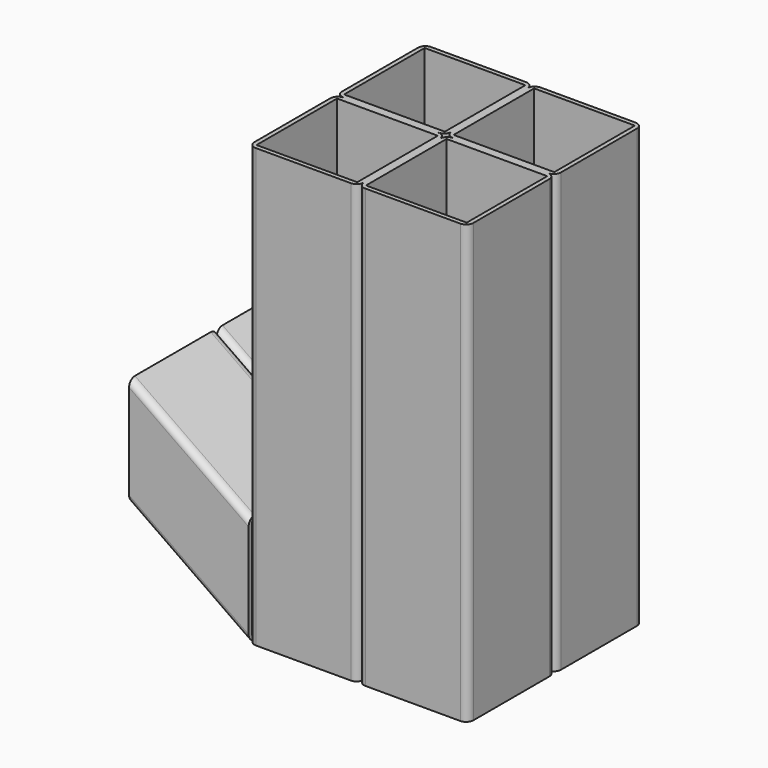
from build123d import *

# Parameters (mm, degrees)
F0_W     = 65
F0_H     = 3
F0_W_2   = 3
F0_H_2   = 65
F1_DEPTH = 300
F3_W     = 65
F3_H     = 3
F3_W_2   = 69
F3_H_2   = 69


with BuildPart() as f1:
    # F0 (on Top) → F1 (new body)
    with BuildSketch(Plane.XY):
        with Locations((-37.5, -1.5)):
            Rectangle(F0_W, F0_H)
        with Locations((-1.5, 37.5)):
            Rectangle(F0_W_2, F0_H_2)
        with Locations((37.5, 1.5)):
            Rectangle(F0_W, F0_H)
        with Locations((37.5, -1.5)):
            Rectangle(F0_W, F0_H)
        with BuildLine():
            Line((70, 3), (70, 0))
            ThreePointArc((70, 0), (73.535534, 1.464466), (75, 5))
            Line((75, 5), (75, 70))
            ThreePointArc((75, 70), (73.535534, 73.535534), (70, 75))
            Line((70, 75), (5, 75))
            ThreePointArc((5, 75), (1.464466, 73.535534), (0, 70))
            Line((0, 70), (3, 70))
            Line((3, 70), (3, 72))
            Line((3, 72), (72, 72))
            Line((72, 72), (72, 3))
            Line((72, 3), (70, 3))
        make_face()
        with BuildLine():
            ThreePointArc((0, 5), (1.464466, 1.464466), (5, 0))
            Line((5, 0), (5, 3))
            Line((5, 3), (3, 3))
            Line((3, 3), (3, 5))
            Line((3, 5), (0, 5))
        make_face()
        with Locations((1.5, 37.5)):
            Rectangle(F0_W_2, F0_H_2)
        with BuildLine():
            ThreePointArc((-5, 0), (-1.464466, 1.464466), (0, 5))
            Line((0, 5), (-3, 5))
            Line((-3, 5), (-3, 3))
            Line((-3, 3), (-5, 3))
            Line((-5, 3), (-5, 0))
        make_face()
        with Locations((-37.5, 1.5)):
            Rectangle(F0_W, F0_H)
        with BuildLine():
            Line((-3, 70), (0, 70))
            ThreePointArc((0, 70), (-1.464466, 73.535534), (-5, 75))
            Line((-5, 75), (-70, 75))
            ThreePointArc((-70, 75), (-73.535534, 73.535534), (-75, 70))
            Line((-75, 70), (-72, 70))
            Line((-72, 70), (-72, 72))
            Line((-72, 72), (-3, 72))
            Line((-3, 72), (-3, 70))
        make_face()
        with BuildLine():
            ThreePointArc((-5, -75), (-1.464466, -73.535534), (0, -70))
            Line((0, -70), (-3, -70))
            Line((-3, -70), (-3, -72))
            Line((-3, -72), (-72, -72))
            Line((-72, -72), (-72, -70))
            Line((-72, -70), (-75, -70))
            ThreePointArc((-75, -70), (-73.535534, -73.535534), (-70, -75))
            Line((-70, -75), (-5, -75))
        make_face()
        with Locations((-1.5, -37.5)):
            Rectangle(F0_W_2, F0_H_2)
        with BuildLine():
            Line((-3, -5), (0, -5))
            ThreePointArc((0, -5), (-1.464466, -1.464466), (-5, 0))
            Line((-5, 0), (-5, -3))
            Line((-5, -3), (-3, -3))
            Line((-3, -3), (-3, -5))
        make_face()
        with BuildLine():
            Line((5, -3), (5, 0))
            ThreePointArc((5, 0), (1.464466, -1.464466), (0, -5))
            Line((0, -5), (3, -5))
            Line((3, -5), (3, -3))
            Line((3, -3), (5, -3))
        make_face()
        with Locations((1.5, -37.5)):
            Rectangle(F0_W_2, F0_H_2)
        with BuildLine():
            ThreePointArc((75, -5), (73.535534, -1.464466), (70, 0))
            Line((70, 0), (70, -3))
            Line((70, -3), (72, -3))
            Line((72, -3), (72, -72))
            Line((72, -72), (3, -72))
            Line((3, -72), (3, -70))
            Line((3, -70), (0, -70))
            ThreePointArc((0, -70), (1.464466, -73.535534), (5, -75))
            Line((5, -75), (70, -75))
            ThreePointArc((70, -75), (73.535534, -73.535534), (75, -70))
            Line((75, -70), (75, -5))
        make_face()
        with Locations((-73.5, 37.5)):
            Rectangle(F0_W_2, F0_H_2)
        with BuildLine():
            ThreePointArc((-75, 5), (-73.535534, 1.464466), (-70, 0))
            Line((-70, 0), (-70, 3))
            Line((-70, 3), (-72, 3))
            Line((-72, 3), (-72, 5))
            Line((-72, 5), (-75, 5))
        make_face()
        with BuildLine():
            Line((-70, -3), (-70, 0))
            ThreePointArc((-70, 0), (-73.535534, -1.464466), (-75, -5))
            Line((-75, -5), (-72, -5))
            Line((-72, -5), (-72, -3))
            Line((-72, -3), (-70, -3))
        make_face()
        with Locations((-73.5, -37.5)):
            Rectangle(F0_W_2, F0_H_2)
    extrude(amount=F1_DEPTH)


with BuildPart() as f4:
    # F4: sweep along a path in F2
    with BuildLine(Plane.XZ) as f4_path:
        Line((-75, 0), (-156.915204, 57.357644))
    # F3 (on face) → F4 (sweep)
    with BuildSketch(Plane(origin=(-75, 0, 0), x_dir=(0, -1, 0), z_dir=(-1, 0, 0))):
        with BuildLine():
            ThreePointArc((-75, 5), (-73.535534, 1.464466), (-70, 0))
            Line((-70, 0), (-70, 3))
            Line((-70, 3), (-72, 3))
            Line((-72, 3), (-72, 72))
            Line((-72, 72), (-70, 72))
            Line((-70, 72), (-70, 75))
            ThreePointArc((-70, 75), (-73.535534, 73.535534), (-75, 70))
            Line((-75, 70), (-75, 5))
        make_face()
        with Locations((-37.5, 73.5)):
            Rectangle(F3_W, F3_H)
        with BuildLine():
            ThreePointArc((-5, 0), (-1.464466, 1.464466), (0, 5))
            Line((0, 5), (0, 70))
            ThreePointArc((0, 70), (-1.464466, 73.535534), (-5, 75))
            Line((-5, 75), (-5, 72))
            Line((-5, 72), (-3, 72))
            Line((-3, 72), (-3, 3))
            Line((-3, 3), (-5, 3))
            Line((-5, 3), (-5, 0))
        make_face()
        with Locations((-37.5, 1.5)):
            Rectangle(F3_W, F3_H)
        with BuildLine():
            ThreePointArc((0, 5), (1.464466, 1.464466), (5, 0))
            Line((5, 0), (70, 0))
            ThreePointArc((70, 0), (73.535534, 1.464466), (75, 5))
            Line((75, 5), (75, 70))
            ThreePointArc((75, 70), (73.535534, 73.535534), (70, 75))
            Line((70, 75), (5, 75))
            ThreePointArc((5, 75), (1.464466, 73.535534), (0, 70))
            Line((0, 70), (0, 5))
        make_face()
        with Locations((37.5, 37.5)):
            Rectangle(F3_W_2, F3_H_2, mode=Mode.SUBTRACT)
    sweep(path=f4_path.line)


solid = Compound([f1.part, f4.part])
